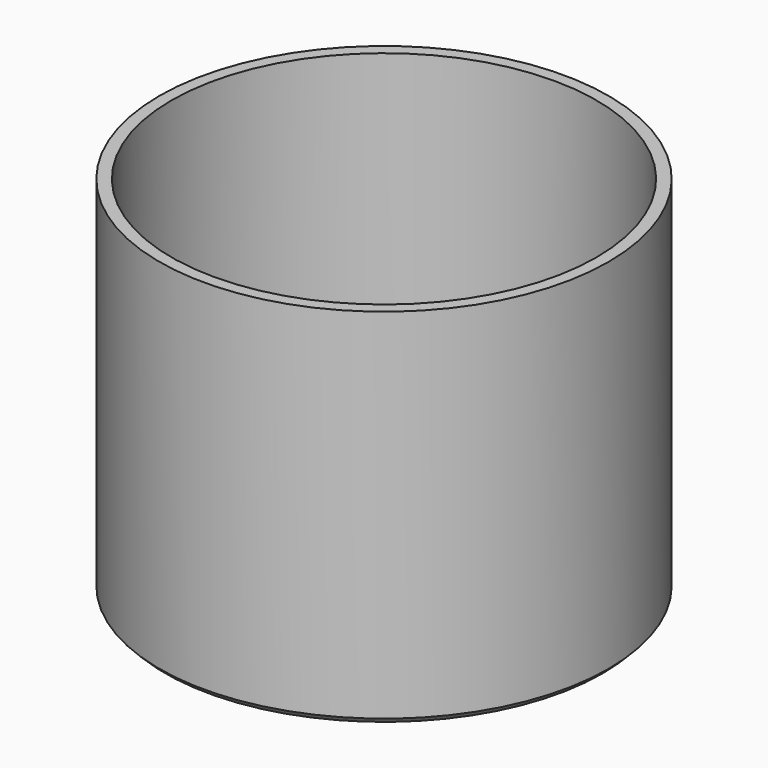
from build123d import *

# Parameters (mm, degrees)
F0_R     = 18.5
F0_R_2   = 17.5
F1_DEPTH = 30
F0_R_3   = 16.5
F2_DEPTH = 1.5
F3_SIZE  = 0.5


with BuildPart() as f1:
    # F0 (on Top) → F1 (new body)
    with BuildSketch(Plane.XY):
        Circle(F0_R)
        Circle(F0_R_2, mode=Mode.SUBTRACT)
    extrude(amount=F1_DEPTH)

    # F0 (on Top) → F2 (join)
    with BuildSketch(Plane.XY):
        Circle(F0_R_2)
        Circle(F0_R_3, mode=Mode.SUBTRACT)
    extrude(amount=F2_DEPTH)

    # F3
    f3_edges = [f1.edges().sort_by_distance(p)[0] for p in [
        (-18.5, 0, 0),
        (-16.5, 0, 0),
    ]]
    chamfer(f3_edges, length=F3_SIZE)


solid = f1.part
